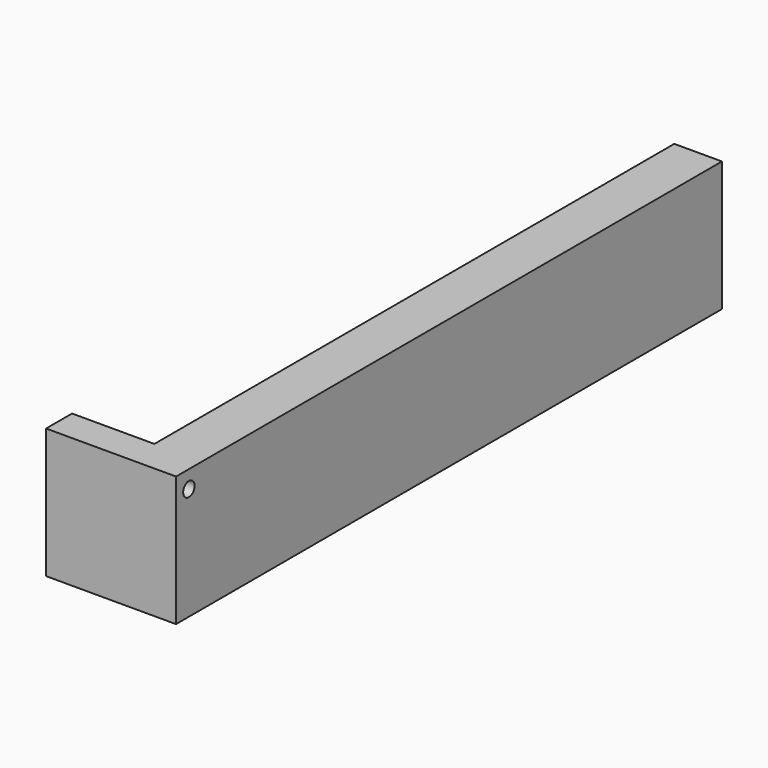
from build123d import *

# Parameters (mm, degrees)
F1_DEPTH = 127
F2_W     = 25.4
F2_H     = 25.4
F3_DEPTH = 6.35
F4_R     = 1.397
F5_DEPTH = 25.401


with BuildPart() as f1:
    # F0 (on Front) → F1 (new body)
    with BuildSketch(Plane.XZ):
        Polygon((12.7, 12.7), (3.386421, 12.7), (3.386421, 6.477), (6.477, 6.477), (6.477, -6.477), (-6.477, -6.477), (-6.477, -4.043587), (-12.7, -4.043587), (-12.7, -12.7), (12.7, -12.7), align=None)
    extrude(amount=F1_DEPTH)

    # F2 (on face) → F3 (join)
    with BuildSketch(Plane.XZ.offset(127)):
        Rectangle(F2_W, F2_H)
    extrude(amount=F3_DEPTH)

    # F4 (on face) → F5 (cut, through all)
    with BuildSketch(Plane(origin=(-12.7, 0, 0), x_dir=(0, -1, 0), z_dir=(-1, 0, 0))):
        with Locations((130.214259, 9.271351)):
            Circle(F4_R)
    extrude(amount=-F5_DEPTH, mode=Mode.SUBTRACT)


solid = f1.part
